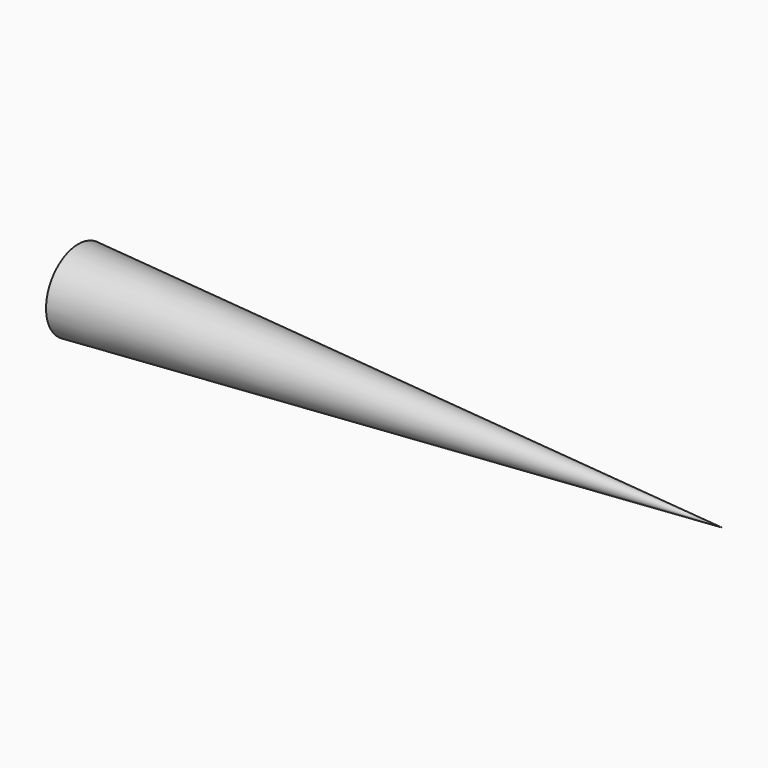
from build123d import *


with BuildPart() as f1:
    # F0 (on Top) → F1 (revolve)
    with BuildSketch(Plane.XY):
        Polygon((0, 5), (0, 0), (80, 0), align=None)
    revolve(axis=Axis((40, 0, 0), (1, 0, 0)))


solid = f1.part
